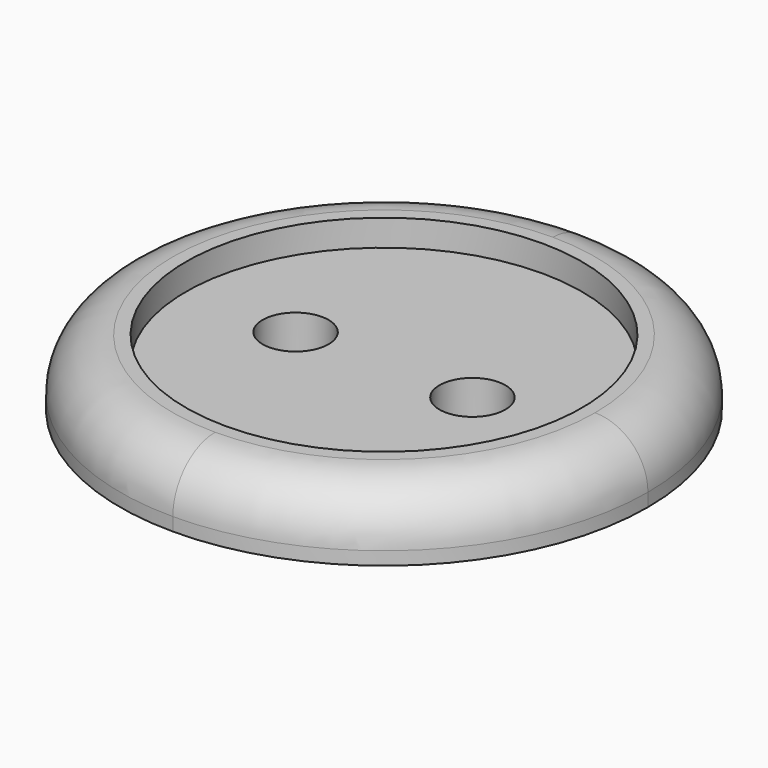
from build123d import *

# Parameters (mm, degrees)
F1_DEPTH = 2.5
F0_R     = 1.25
F2_DEPTH = 1.5
F3_R     = 2


with BuildPart() as f1:
    # F0 (on Top) → F1 (new body)
    with BuildSketch(Plane.XY):
        with BuildLine():
            ThreePointArc((0, 7.5), (5.3033008589, 5.3033008589), (7.5, 0))
            ThreePointArc((7.5, 0), (5.3033008589, -5.3033008589), (0, -7.5))
            Line((0, -7.5), (0, -10))
            ThreePointArc((0, -10), (7.0710678119, -7.0710678119), (10, 0))
            ThreePointArc((10, 0), (7.0710678119, 7.0710678119), (0, 10))
            Line((0, 10), (0, 7.5))
        make_face()
        with BuildLine():
            ThreePointArc((0, -7.5), (-7.5, 0), (0, 7.5))
            Line((0, 7.5), (0, 10))
            ThreePointArc((0, 10), (-10, 0), (0, -10))
            Line((0, -10), (0, -7.5))
        make_face()
    extrude(amount=F1_DEPTH)

    # F0 (on Top) → F2 (join)
    with BuildSketch(Plane.XY):
        with BuildLine():
            Line((0, -7.5), (0, 7.5))
            ThreePointArc((0, 7.5), (-7.5, 0), (0, -7.5))
        make_face()
        with Locations((-3.3498867415, 0)):
            Circle(F0_R, mode=Mode.SUBTRACT)
        with BuildLine():
            ThreePointArc((0, -7.5), (5.3033008589, -5.3033008589), (7.5, 0))
            ThreePointArc((7.5, 0), (5.3033008589, 5.3033008589), (0, 7.5))
            Line((0, 7.5), (0, -7.5))
        make_face()
        with Locations((3.3498867415, 0)):
            Circle(F0_R, mode=Mode.SUBTRACT)
    extrude(amount=F2_DEPTH)

    # F3
    f3_edges = [f1.edges().sort_by_distance(p)[0] for p in [
        (-10, 0, 2.5),
    ]]
    fillet(f3_edges, radius=F3_R)


solid = f1.part
